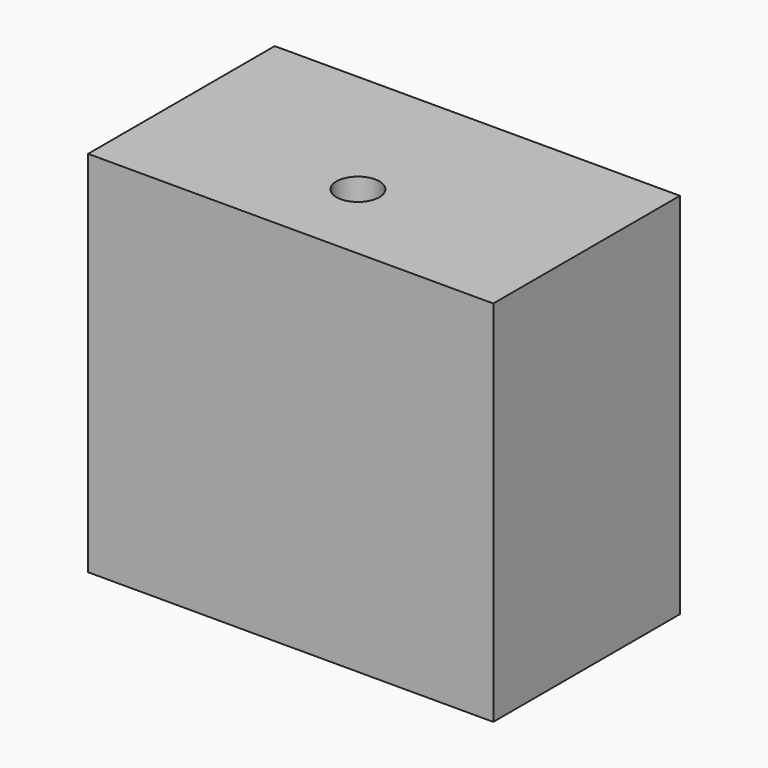
from build123d import *

# Parameters (mm, degrees)
BOX_W      = 33
BOX_H      = 19
BOX_DEPTH  = 30
SKETCH_R   = 1.75
HOLE_DEPTH = 30.001


with BuildPart() as part:
    # Box → Box (new body)
    with BuildSketch(Plane.XY):
        with Locations((16.5, 9.5)):
            Rectangle(BOX_W, BOX_H)
    extrude(amount=BOX_DEPTH)

    # Sketch (on DatumPlane) → Hole (cut, through all)
    with BuildSketch(Plane(origin=(0, 0, 0), x_dir=(1, 0, 0), z_dir=(0, 0, -1))):
        with Locations((16.453714, -6.908146)):
            Circle(SKETCH_R)
    extrude(amount=-HOLE_DEPTH, mode=Mode.SUBTRACT)


solid = part.part
